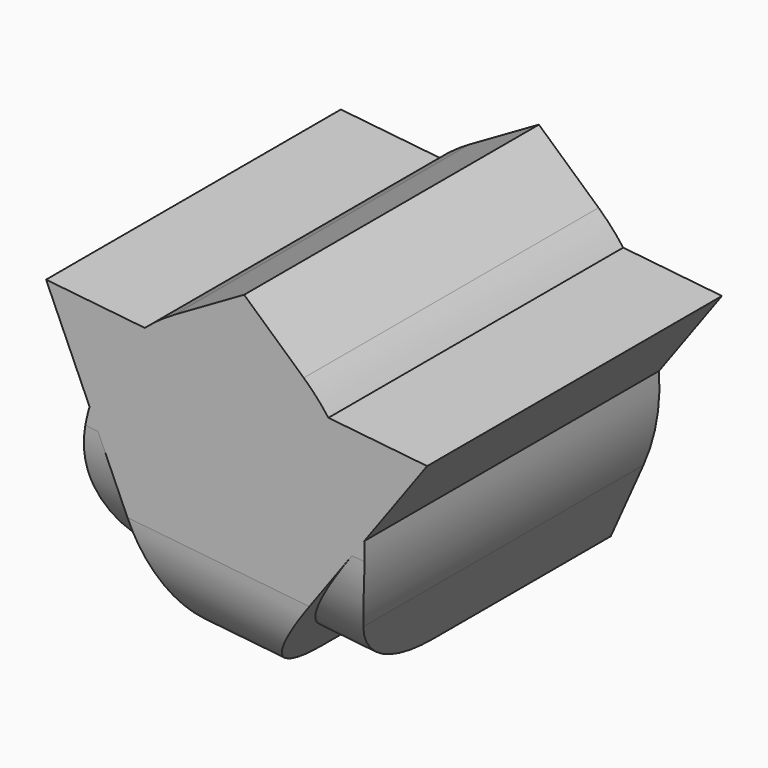
from build123d import *

# Parameters (mm, degrees)
F1_DEPTH = 10
F2_R     = 4
F3_R     = 5
F4_R     = 5
F6_DEPTH = 10
F7_SIZE  = 1.5
F8_R     = 3


with BuildPart() as f1:
    # F0 (on Front) → F1 (new body)
    with BuildSketch(Plane.XZ):
        Polygon((4.8367500103, 1.0255116078), (0.5193184536, 4.9169231297), (-4.515793555, 2.0133140065), (-3.3102323568, -3.6726266437), (2.4699574478, -4.2831221003), align=None)
    extrude(amount=F1_DEPTH)

    # F2
    f2_edges = [f1.edges().sort_by_distance(p)[0] for p in [
        (-0.420137, -10, -3.977874),
    ]]
    fillet(f2_edges, radius=F2_R)

    # F3
    f3_edges = [f1.edges().sort_by_distance(p)[0] for p in [
        (4.83675, -5, 1.025512),
    ]]
    fillet(f3_edges, radius=F3_R)

    # F4
    f4_edges = [f1.edges().sort_by_distance(p)[0] for p in [
        (-4.515794, -5, 2.013314),
    ]]
    fillet(f4_edges, radius=F4_R)

    # F5 (on Front) → F6 (join)
    with BuildSketch(Plane.XZ):
        Polygon((5.4859916503, 2.4391776778), (-4.8553856584, 3.5314192952), (-0.6306059919, -5.970596973), align=None)
    extrude(amount=F6_DEPTH)

    # F7
    f7_edges = [f1.edges().sort_by_distance(p)[0] for p in [
        (-0.630606, -5, -5.970597),
    ]]
    chamfer(f7_edges, length=F7_SIZE)

    # F8
    f8_edges = [f1.edges().sort_by_distance(p)[0] for p in [
        (-0.494162, -10, -4.678744),
    ]]
    fillet(f8_edges, radius=F8_R)


solid = f1.part
